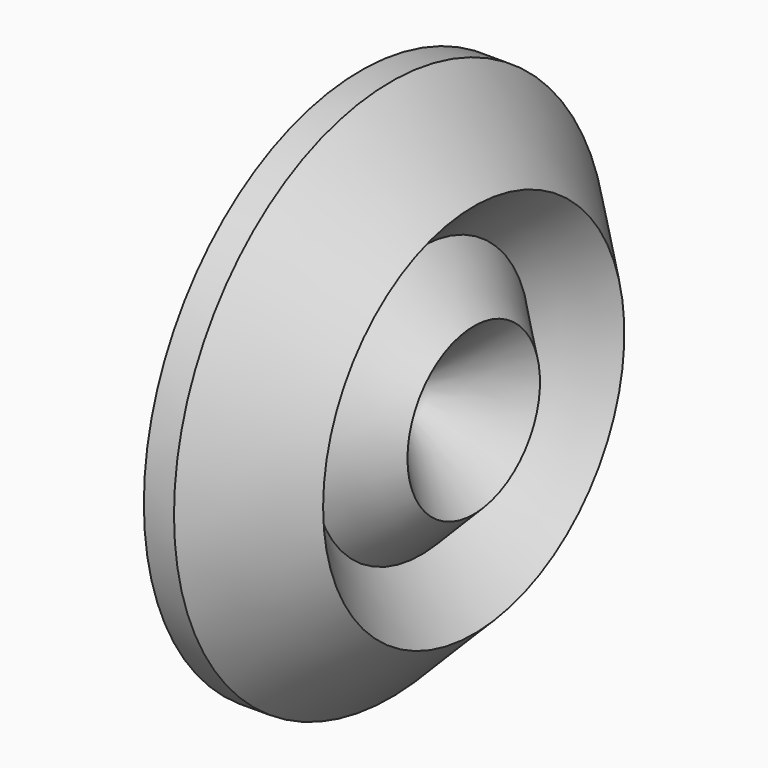
from build123d import *


with BuildPart() as f1:
    # F0 (on Top) → F1 (revolve)
    with BuildSketch(Plane.XY):
        Polygon((4, 0), (0, 0), (0, -36), (4, -36), (15, -25), (8.0195304944, -18), (15, -11), align=None)
        Polygon((4, -32), (4, -18.1), (11, -25), align=None, mode=Mode.SUBTRACT)
        Polygon((4, -17.9), (4, -4), (11, -11), align=None, mode=Mode.SUBTRACT)
        Polygon((11, -11), (4, -4), (4, -17.9), align=None)
        Polygon((11, -25), (4, -18.1), (4, -32), align=None)
    revolve(axis=Axis((2, 0, 0), (1, 0, 0)))


solid = f1.part
